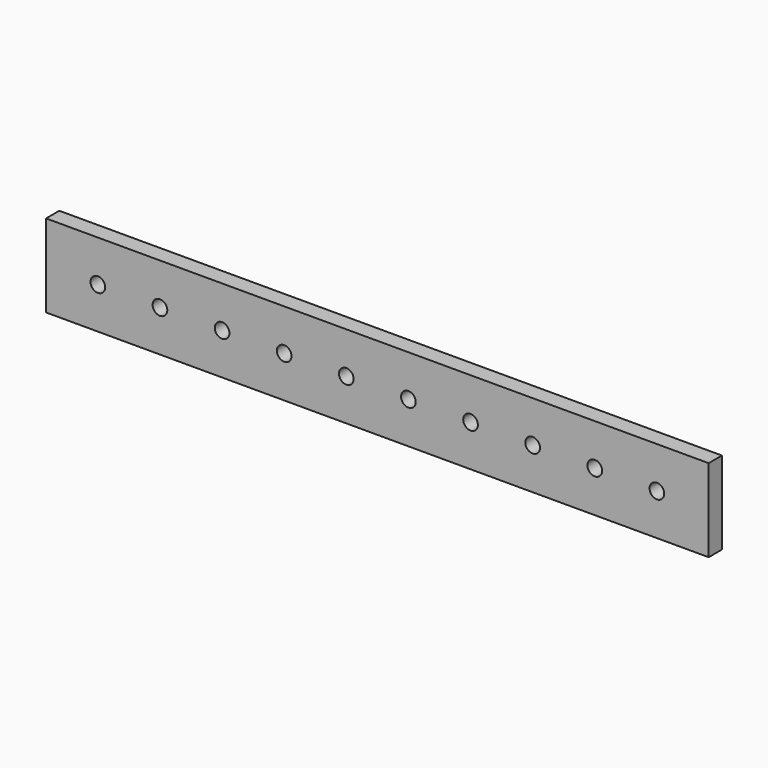
from build123d import *

# Parameters (mm, degrees)
F0_W     = 203.2
F0_H     = 25.4
F1_DEPTH = 5.08
F2_R     = 2.2479
F3_DEPTH = 25.4


with BuildPart() as f1:
    # F0 (on Front) → F1 (new body)
    with BuildSketch(Plane.XZ):
        Rectangle(F0_W, F0_H)
    extrude(amount=F1_DEPTH)

    # F2 (on face) → F3 (cut)
    with BuildSketch(Plane.XZ.offset(5.08)):
        with Locations((-85.725, 0)):
            Circle(F2_R)
        with Locations((-66.675, 0)):
            Circle(F2_R)
        with Locations((-47.625, 0)):
            Circle(F2_R)
        with Locations((-28.575, 0)):
            Circle(F2_R)
        with Locations((-9.525, 0)):
            Circle(F2_R)
        with Locations((9.525, 0)):
            Circle(F2_R)
        with Locations((28.575, 0)):
            Circle(F2_R)
        with Locations((47.625, 0)):
            Circle(F2_R)
        with Locations((66.675, 0)):
            Circle(F2_R)
        with Locations((85.725, 0)):
            Circle(F2_R)
    extrude(amount=-F3_DEPTH, mode=Mode.SUBTRACT)


solid = f1.part
